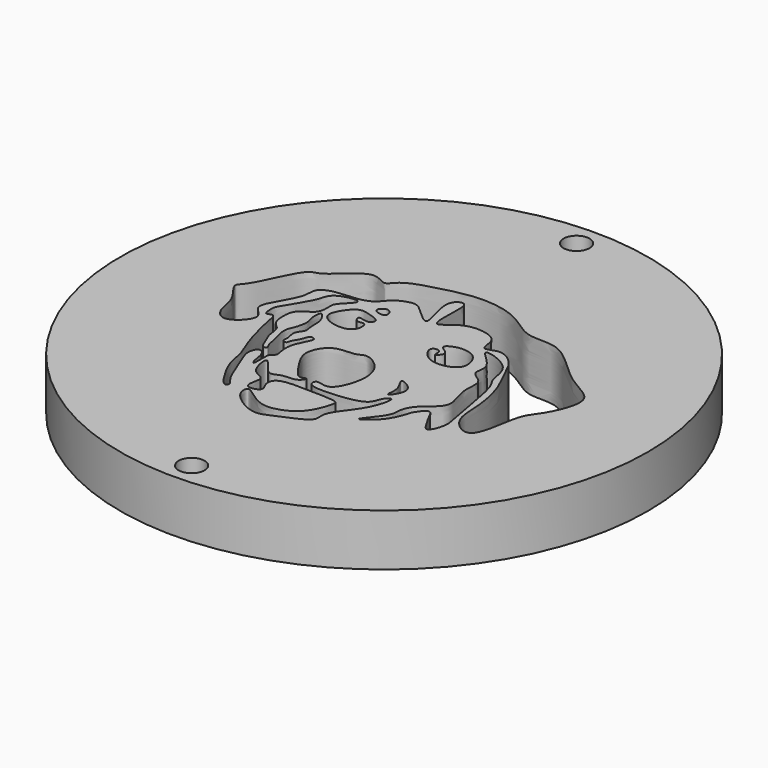
from build123d import *

# Parameters (mm, degrees)
F0_R     = 25.4
F0_R_2   = 1.25
F1_DEPTH = 5


with BuildPart() as f1:
    # F0 (on Top) → F1 (new body)
    with BuildSketch(Plane.XY):
        Circle(F0_R)
        with Locations((0, -23.15)):
            Circle(F0_R_2, mode=Mode.SUBTRACT)
        with BuildLine():
            add(Edge.make_bspline(
                [(-6.2883724459, -6.2586348504), (-6.0664618571, -6.212731786), (-4.9599211519, -8.2679311953), (-3.9732685039, -7.2569115886), (-2.4305258815, -7.5517532594), (-1.9243835764, -6.5262568716), (-2.6024356961, -6.9404918878), (-3.1328259739, -6.5422802575), (-4.1179990995, -5.094771781), (-5.091557018, -3.4329266732), (-3.8438167911, -1.1710597827), (-1.7081220211, -1.5070080382), (-0.9258925203, -0.7668774159), (0.7122704042, -1.6981535771), (1.6386387196, -3.7447497476), (0.3732998004, -7.3715084263), (-1.2536958465, -6.2959120532), (-1.5170418557, -7.5296791692), (1.3666328177, -7.509321903), (4.1951329648, -7.0242814905), (4.2437194645, -5.7600048358), (5.2473697132, -4.8609301603), (4.6935374067, -7.4131255584), (3.1332795229, -9.2261878829), (2.3966586206, -10.5484008933), (2.8457293992, -11.7818091656), (-0.1392778011, -12.8310924469), (-1.6986939527, -13.744751684), (-3.8157458148, -12.5747430513), (-4.6849744648, -11.5374355048), (-4.5971801628, -10.435100185), (-3.318414681, -11.4945479261), (-1.8300745843, -12.3298636094), (0.099866537, -11.7684309378), (1.3804773928, -10.8033077453), (2.2176966678, -8.5243850544), (1.7953915031, -8.1252298583), (-0.8297854866, -8.1169580652), (-3.8564765089, -7.9948928384), (-4.0888350663, -9.3439818164), (-3.2170293522, -10.3348616333), (-5.4126886002, -10.782067192), (-4.3128706879, -8.4949945613), (-6.1712759397, -8.5462463063), (-6.5037334636, -6.3031831106), (-6.2883724459, -6.2586348504)],
                knots=[0, 0, 0, 0, 0.026636093, 0.045996888, 0.0692566227, 0.0841250216, 0.096660898, 0.1111747884, 0.136362049, 0.1623524012, 0.1897891714, 0.2160360271, 0.2340266095, 0.2576225753, 0.2864964411, 0.3197394201, 0.3403585334, 0.3540675599, 0.3844493037, 0.4161510004, 0.4359836095, 0.451546708, 0.4770329174, 0.5083866836, 0.5307330161, 0.5490986038, 0.5808800537, 0.6068245179, 0.6348614375, 0.657239554, 0.6721044803, 0.6931762627, 0.7186322783, 0.7442584095, 0.7691515921, 0.7972588878, 0.8086800205, 0.8395477025, 0.8718470501, 0.8904761301, 0.9085845363, 0.9288777819, 0.9520286019, 0.9741500569, 1, 1, 1, 1], degree=3))
        make_face(mode=Mode.SUBTRACT)
        with BuildLine():
            add(Edge.make_bspline(
                [(-6.9203334861, 5.4807714187), (-7.0514928389, 5.744745492), (-9.2415185325, 5.4078296725), (-9.4060066782, 4.0039260674), (-9.9534718557, 3.050523192), (-10.5120654415, 2.0325024694), (-11.2132271147, 1.0034353056), (-11.2744950803, 0.4519333783), (-11.177043427, -0.6034644564), (-10.3714158932, 0.1139965865), (-10.1973883337, -1.4218072064), (-9.8875200658, -2.5238843362), (-9.5253851246, -3.9777071014), (-9.0582448503, -5.265035225), (-8.4767786854, -6.601914727), (-8.2587606969, -8.209737419), (-7.6334771917, -9.5609275963), (-6.3614954836, -11.6016726844), (-5.9644632331, -10.9114018566), (-6.6673695763, -10.3576352817), (-7.2585426921, -8.7132409419), (-7.9011342473, -7.2399006324), (-8.3723369238, -5.9459992538), (-7.8278280593, -5.0230582443), (-7.0987066842, -5.653578893), (-7.0932447072, -6.7313926687), (-6.7192068732, -7.5111989869), (-6.7451241201, -5.9923705727), (-6.7345516586, -5.3422040863), (-6.1570654173, -5.1292628713), (-6.453442654, -4.3160896187), (-6.4247018846, -3.1908965803), (-6.0948851071, -2.5440972143), (-5.7992147092, -1.910409551), (-5.5275032689, -1.2661236916), (-6.2356741134, -1.0912937836), (-6.3368569558, -1.9369495476), (-6.8893102544, -2.6008633104), (-6.9028036365, -3.1714670075), (-7.467501078, -2.9620606632), (-7.2202722316, -2.4864179292), (-7.6902404822, -1.3864097376), (-6.8847141246, -0.7374233695), (-7.1650639122, 0.007794542), (-7.0705270791, 1.0381710302), (-7.3711183904, 1.7899204419), (-7.962359953, 2.5367488785), (-8.0538988905, 1.2638761515), (-7.6605906357, 0.5141535614), (-7.9915697993, -0.8031103732), (-8.4709048883, -1.6127310234), (-7.8818784596, -3.4042582966), (-7.8078872465, -4.2129226178), (-7.4455601619, -4.6033472031), (-7.9754902863, -4.8056136402), (-8.3022041235, -3.9366314563), (-8.8344765482, -2.8274779171), (-8.7892260395, -1.6572909369), (-9.5859648991, -1.2171787835), (-9.7940800061, -0.4713515585), (-9.8487624181, 0.3244337492), (-9.6595800436, 1.5762480929), (-7.9748688016, 2.1053751378), (-8.1033228938, 3.619591053), (-8.0280046189, 4.2498473217), (-6.8042485634, 5.2471364608), (-6.9203334861, 5.4807714187)],
                knots=[0, 0, 0, 0, 0.0224267976, 0.0411075728, 0.057791313, 0.07550985, 0.093100416, 0.105914897, 0.1197119322, 0.1313072346, 0.1484161244, 0.1669568981, 0.1864328559, 0.2054216134, 0.2248864562, 0.2449405067, 0.2661975952, 0.2888650128, 0.2980621608, 0.3122680275, 0.3336949396, 0.3547537227, 0.3734644677, 0.3873637497, 0.4005131307, 0.4181855803, 0.4284677598, 0.4455817351, 0.4591099328, 0.4695992353, 0.4835164828, 0.500795868, 0.5144738706, 0.5283297378, 0.5403789775, 0.5508005979, 0.5644520731, 0.5799197782, 0.5903414069, 0.5999566128, 0.6105368834, 0.627317152, 0.642145337, 0.6556860226, 0.671968918, 0.6872068543, 0.699256093, 0.7141042139, 0.72982064, 0.7477986533, 0.7634838181, 0.7851532894, 0.8001448296, 0.8098775063, 0.8187468269, 0.833134664, 0.8516899686, 0.8684022964, 0.8827803837, 0.8964583849, 0.9110121379, 0.9281709978, 0.9480386506, 0.9661271297, 0.9801507631, 1, 1, 1, 1], degree=3))
        make_face(mode=Mode.SUBTRACT)
        with BuildLine():
            add(Edge.make_bspline(
                [(3.7392580416, -2.5387068745), (3.5933714354, -2.6364039893), (4.5968434203, -3.6927464702), (3.8993333805, -5.5788620085), (5.7435159505, -3.2664483789), (3.894370985, -2.4348310805), (3.7392580416, -2.5387068745)],
                knots=[0, 0, 0, 0, 0.2463108794, 0.4702761913, 0.7381116299, 1, 1, 1, 1], degree=3))
        make_face(mode=Mode.SUBTRACT)
        with BuildLine():
            add(Edge.make_bspline(
                [(5.7630524971, 5.0277602859), (5.680793475, 4.8110878412), (7.7930958939, 3.3929446382), (6.7759026006, 1.8059558432), (8.751571338, 1.1197297188), (8.043899563, -0.9171688983), (9.5092883575, -3.53157643), (7.3070377603, -4.7685186755), (6.4541674456, -6.2690471053), (6.7684197338, -7.422507424), (4.115303645, -10.1500464829), (6.908789902, -8.3116709324), (7.4690283046, -6.240221779), (7.5632721014, -5.9895587227), (8.4855020992, -4.6104827353), (9.0418089447, -6.063725342), (9.4432928048, -6.6111758119), (10.1895595986, -8.0514468664), (10.9204131018, -6.0906761402), (10.6539682427, -4.9847455606), (10.0919563702, -1.8068575474), (9.5619974027, 1.1243585089), (8.7501772186, 1.8804966426), (8.8415546899, 4.4298825554), (5.8509285595, 5.2592281639), (5.7630524971, 5.0277602859)],
                knots=[0, 0, 0, 0, 0.0501879099, 0.0900980767, 0.130234815, 0.1763296235, 0.2302247045, 0.2792350728, 0.3217311566, 0.3596125664, 0.4110322854, 0.4570346816, 0.5073130504, 0.5274937111, 0.5635962111, 0.5976293442, 0.6301647652, 0.6639709689, 0.7036725139, 0.7418769471, 0.8030525671, 0.8610513227, 0.8948271417, 0.946385019, 1, 1, 1, 1], degree=3))
        make_face(mode=Mode.SUBTRACT)
        with BuildLine():
            add(Edge.make_bspline(
                [(-5.2198781632, 3.4839210566), (-5.1115726193, 3.6064256596), (-4.233386665, 3.1465245427), (-3.6267205588, 4.0151829143), (-5.0218411516, 4.4343227093), (-6.0742062656, 4.7398971753), (-7.1359071038, 3.4185764275), (-7.5197204689, 2.1412752199), (-6.0595842642, 1.29666226), (-4.0011753937, 1.449531464), (-4.0998022846, 3.3184884458), (-4.9946295741, 2.7029180592), (-5.3051429406, 3.3874779077), (-5.2198781632, 3.4839210566)],
                knots=[0, 0, 0, 0, 0.085360754, 0.1536320668, 0.249218514, 0.3403402629, 0.4496921539, 0.5436794515, 0.6504520339, 0.7677931101, 0.8609086045, 0.9327987707, 1, 1, 1, 1], degree=3))
        make_face(mode=Mode.SUBTRACT)
        with BuildLine():
            add(Edge.make_bspline(
                [(-4.2913540053, 5.8487872004), (-4.6192432422, 5.9202179937), (-5.5094584857, 5.1513182963), (-3.470550413, 4.7052026829), (-3.963017141, 5.7772588913), (-4.2913540053, 5.8487872004)],
                knots=[0, 0, 0, 0, 0.3215690283, 0.6779919726, 1, 1, 1, 1], degree=3))
        make_face(mode=Mode.SUBTRACT)
        with Locations((0, 23.15)):
            Circle(F0_R_2, mode=Mode.SUBTRACT)
        with BuildLine():
            add(Edge.make_bspline(
                [(-15.232494918, 2.6071704338), (-14.5533089258, 3.584182166), (-13.1747495373, 7.3748386876), (-11.7460864723, 6.9693472009), (-8.9309946284, 10.4396998695), (-7.1614604878, 8.6578085952), (-6.4794001709, 10.2000475198), (-3.0022089969, 11.0944528045), (-0.08337959, 11.8254691262), (3.859658771, 11.2346559952), (6.3693431756, 8.7683639079), (9.8041446027, 9.7057232515), (13.3376451425, 5.2481107654), (17.2979538858, 4.1005791422), (15.2749404444, -0.313493115), (14.0010414275, -1.3775494109), (13.7299336035, -7.1203275621), (10.6822647175, -4.9753315436), (10.8700586338, -2.2959604214), (10.1834749711, 1.1166237972), (9.0549630431, 2.9130168142), (8.4736020793, 4.7379122473), (6.6149727028, 6.1745818717), (4.9578385346, 4.9929106139), (5.1883983138, 7.1191646358), (3.244014373, 7.764069145), (1.3256419105, 7.4875939864), (-0.3554360433, 5.5761105743), (-0.2029006722, 8.6714151164), (-0.1899234531, 10.6128772606), (-2.1251465646, 9.6419036219), (-0.0048309292, 5.0500028982), (-2.4679524164, 7.3509411914), (-3.2775952172, 8.1154043765), (-5.205136665, 7.3564848725), (-5.8253380374, 6.0194331327), (-8.0270411434, 5.6787098882), (-9.4384906297, 5.7106161733), (-10.7707034013, 5.0507385821), (-10.4466843426, 3.6835703664), (-11.8852610522, 1.4720389204), (-12.5082036467, -0.079760568), (-10.550531721, -1.1020510368), (-12.9665943209, -3.5187648835), (-14.3550094252, -1.9726266691), (-14.3206197931, 0.0046190459), (-16.1800880193, 1.8487317775), (-15.5417331801, 2.1623299725), (-15.232494918, 2.6071704338)],
                knots=[0, 0, 0, 0, 0.0323165799, 0.0489286385, 0.0773945942, 0.0959054051, 0.1115740331, 0.1389702536, 0.1653708107, 0.1940493317, 0.2205220159, 0.245902835, 0.2801264882, 0.3070794817, 0.3353741843, 0.356684565, 0.3871966715, 0.4082447963, 0.4326811433, 0.4600428012, 0.4814004248, 0.5017571947, 0.5229547861, 0.5394569763, 0.5565254127, 0.5761105307, 0.5973187454, 0.6154225877, 0.6376349163, 0.656230472, 0.6720078209, 0.6987503686, 0.7182174089, 0.7347145971, 0.7541251165, 0.7716679557, 0.7927289414, 0.8109249186, 0.8269673475, 0.8430336539, 0.8670784702, 0.8846548794, 0.9024612854, 0.9249493045, 0.9427822002, 0.9640514085, 0.985286029, 1, 1, 1, 1], degree=3))
        make_face(mode=Mode.SUBTRACT)
        with BuildLine():
            add(Edge.make_bspline(
                [(2.7016543318, 3.6982928868), (2.6188451143, 3.9229899172), (3.6519237909, 4.5393598649), (5.3760012153, 4.2618545414), (5.9857904646, 3.0024837306), (5.953997719, 1.5817205245), (3.0853448814, 0.9110532507), (1.6909754525, 3.1623692421), (3.1930949684, 3.1850248389), (2.788428025, 1.975925061), (3.9236157283, 3.1443123892), (2.784308165, 3.4740174806), (2.7016543318, 3.6982928868)],
                knots=[0, 0, 0, 0, 0.093665228, 0.2133542554, 0.3161082528, 0.413656187, 0.5575426745, 0.6784705561, 0.755306832, 0.8273654073, 0.9065105265, 1, 1, 1, 1], degree=3))
        make_face(mode=Mode.SUBTRACT)
    extrude(amount=F1_DEPTH)


solid = f1.part
